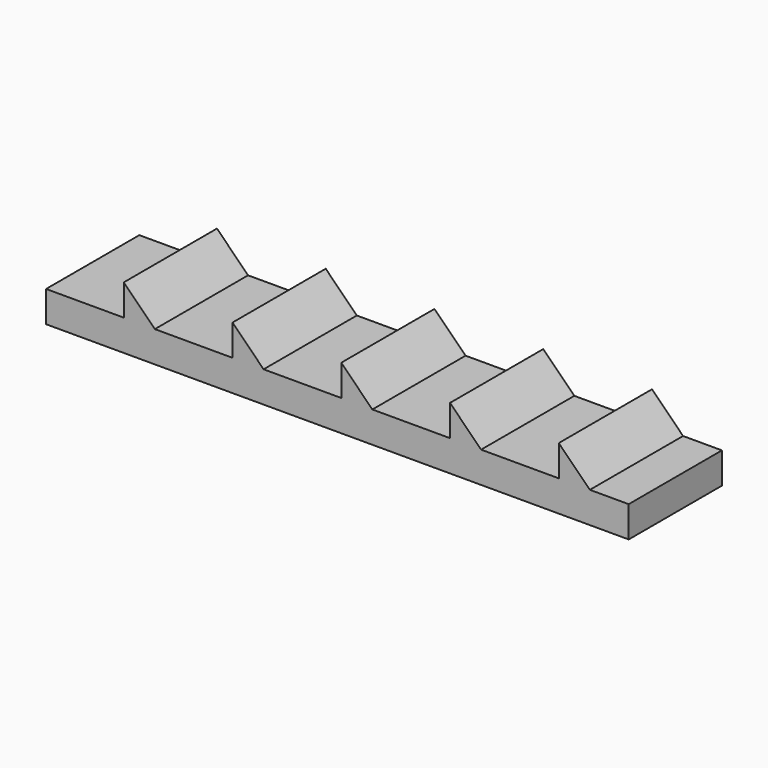
from build123d import *

# Parameters (mm, degrees)
F0_W     = 150
F0_H     = 30
F2_DEPTH = 8
F3_DEPTH = 30


with BuildPart() as f2:
    # F0 (on Top) → F2 (new body)
    with BuildSketch(Plane.XY):
        with Locations((75, 15)):
            Rectangle(F0_W, F0_H)
    extrude(amount=F2_DEPTH)

    # F1 (on Front) → F3 (join)
    with BuildSketch(Plane.XZ):
        Polygon((28, 8), (20, 16), (20, 8), align=None)
        Polygon((56, 8), (48, 16), (48, 8), align=None)
        Polygon((84, 8), (76, 16), (76, 8), align=None)
        Polygon((112, 8), (104, 16), (104, 8), align=None)
        Polygon((140, 8), (132, 16), (132, 8), align=None)
    extrude(amount=-F3_DEPTH)


solid = f2.part
